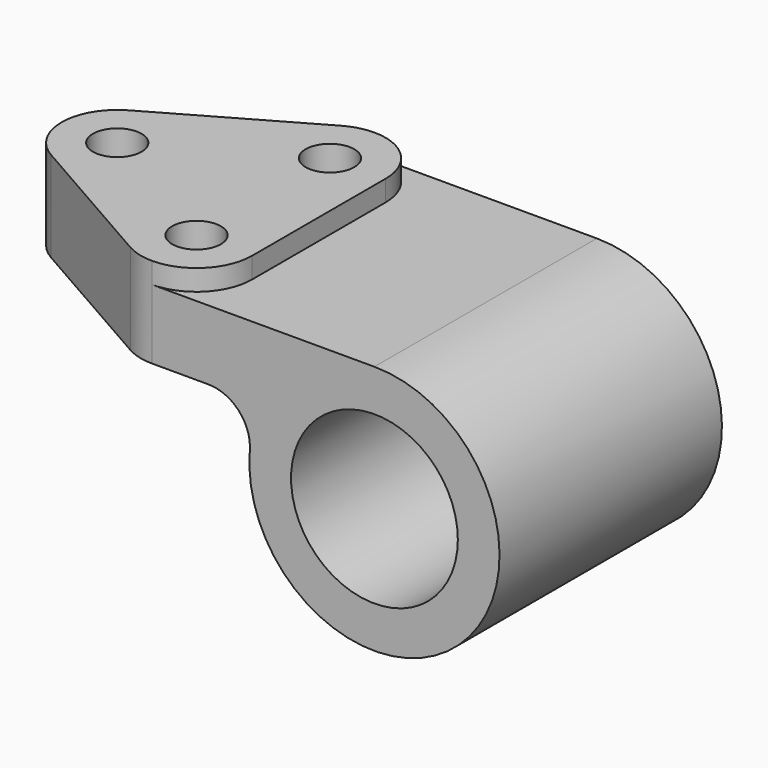
from build123d import *

# Parameters (mm, degrees)
F0_R     = 19.05
F1_DEPTH = 63.5
F3_DEPTH = 4.7752
F4_DEPTH = 25.4
F2_R     = 5.5626
F5_DEPTH = 25.4


with BuildPart() as f1:
    # F0 (on Front) → F1 (new body)
    with BuildSketch(Plane.XZ):
        with BuildLine():
            ThreePointArc((-37.9674778593, 12.7), (-30.9572676717, 9.6234554837), (-28.4756083945, 2.38125))
            ThreePointArc((-28.4756083945, 2.38125), (19.345366451, -21.0306305629), (0, 28.575))
            Line((0, 28.575), (-38.1, 28.575))
            Line((-38.1, 28.575), (-38.1, 33.3502))
            Line((-38.1, 33.3502), (-96.8502, 33.3502))
            Line((-96.8502, 33.3502), (-96.8502, 28.575))
            Line((-96.8502, 28.575), (-96.8502, 12.7))
            Line((-96.8502, 12.7), (-37.9674778593, 12.7))
        make_face()
        Circle(F0_R, mode=Mode.SUBTRACT)
    extrude(amount=F1_DEPTH)

    # F2 (on face) → F3 (cut)
    with BuildSketch(Plane.XY.offset(33.3502)):
        with BuildLine():
            ThreePointArc((-96.8502, -31.75), (-95.1340352623, -25.3746284085), (-90.4493554441, -20.7222785358))
            Line((-90.4493554441, -20.7222785358), (-57.0991554441, -1.6722785358))
            ThreePointArc((-57.0991554441, -1.6722785358), (-54.0586759125, -0.4251871176), (-50.8, 0))
            Line((-50.8, 0), (-96.8502, 0))
            Line((-96.8502, 0), (-96.8502, -31.75))
        make_face()
        with BuildLine():
            ThreePointArc((-90.4493554441, -42.7777214642), (-95.1340352623, -38.1253715915), (-96.8502, -31.75))
            Line((-96.8502, -31.75), (-96.8502, -63.5))
            Line((-96.8502, -63.5), (-50.8, -63.5))
            ThreePointArc((-50.8, -63.5), (-54.0586759125, -63.0748128824), (-57.0991554441, -61.8277214642))
            Line((-57.0991554441, -61.8277214642), (-90.4493554441, -42.7777214642))
        make_face()
        with BuildLine():
            ThreePointArc((-38.1, -50.8), (-41.8197438789, -59.7802561211), (-50.8, -63.5))
            Line((-50.8, -63.5), (-38.1, -63.5))
            Line((-38.1, -63.5), (-38.1, -50.8))
        make_face()
        with BuildLine():
            Line((-38.1, 0), (-50.8, 0))
            ThreePointArc((-50.8, 0), (-41.8197438789, -3.7197438789), (-38.1, -12.7))
            Line((-38.1, -12.7), (-38.1, 0))
        make_face()
    extrude(amount=-F3_DEPTH, mode=Mode.SUBTRACT)

    # F2 (on face) → F4 (cut)
    with BuildSketch(Plane.XY.offset(33.3502)):
        with BuildLine():
            ThreePointArc((-96.8502, -31.75), (-95.1340352623, -25.3746284085), (-90.4493554441, -20.7222785358))
            Line((-90.4493554441, -20.7222785358), (-57.0991554441, -1.6722785358))
            ThreePointArc((-57.0991554441, -1.6722785358), (-54.0586759125, -0.4251871176), (-50.8, 0))
            Line((-50.8, 0), (-96.8502, 0))
            Line((-96.8502, 0), (-96.8502, -31.75))
        make_face()
        with BuildLine():
            ThreePointArc((-90.4493554441, -42.7777214642), (-95.1340352623, -38.1253715915), (-96.8502, -31.75))
            Line((-96.8502, -31.75), (-96.8502, -63.5))
            Line((-96.8502, -63.5), (-50.8, -63.5))
            ThreePointArc((-50.8, -63.5), (-54.0586759125, -63.0748128824), (-57.0991554441, -61.8277214642))
            Line((-57.0991554441, -61.8277214642), (-90.4493554441, -42.7777214642))
        make_face()
    extrude(amount=-F4_DEPTH, mode=Mode.SUBTRACT)

    # F2 (on face) → F5 (cut)
    with BuildSketch(Plane.XY.offset(33.3502)):
        with Locations((-50.8, -12.7)):
            Circle(F2_R)
        with Locations((-84.1502, -31.75)):
            Circle(F2_R)
        with Locations((-50.8, -50.8)):
            Circle(F2_R)
    extrude(amount=-F5_DEPTH, mode=Mode.SUBTRACT)


solid = f1.part
